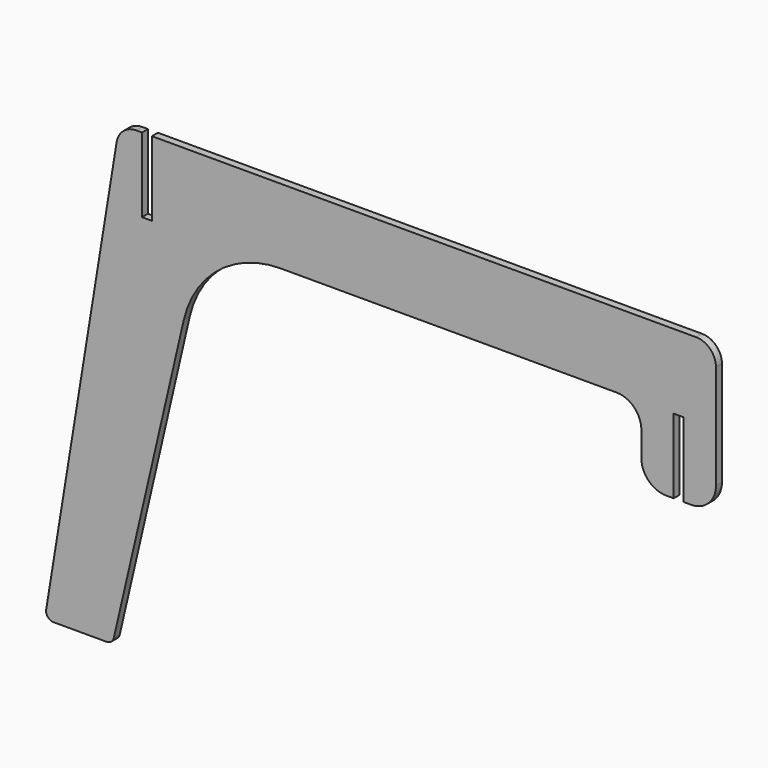
from build123d import *

# Parameters (mm, degrees)
F1_DEPTH = 3


with BuildPart() as f1:
    # F0 (on Front) → F1 (new body)
    with BuildSketch(Plane.XZ):
        with BuildLine():
            Line((-95.890157, 92.5), (-98.192794, 92.5))
            ThreePointArc((-98.192794, 92.5), (-103.377167, 90.592805), (-106.089637, 85.780569))
            Line((-106.089637, 85.780569), (-134.435641, -89.019787))
            ThreePointArc((-134.435641, -89.019787), (-133.759127, -91.44414), (-131.474325, -92.5))
            Line((-131.474325, -92.5), (-110.14113, -92.5))
            ThreePointArc((-110.14113, -92.5), (-108.273856, -91.848039), (-107.218175, -90.175525))
            Line((-107.218175, -90.175525), (-79.096105, 31.506996))
            ThreePointArc((-79.096105, 31.506996), (-65.02036, 53.807186), (-40.12337, 62.5))
            Line((-40.12337, 62.5), (95, 62.5))
            ThreePointArc((95, 62.5), (102.071068, 59.571068), (105, 52.5))
            Line((105, 52.5), (105, 42.5))
            ThreePointArc((105, 42.5), (107.928932, 35.428932), (115, 32.5))
            Line((115, 32.5), (118, 32.5))
            Line((118, 32.5), (118, 62.5))
            Line((118, 62.5), (122, 62.5))
            Line((122, 62.5), (122, 32.5))
            Line((122, 32.5), (125, 32.5))
            ThreePointArc((125, 32.5), (132.071068, 35.428932), (135, 42.5))
            Line((135, 42.5), (135, 62.5))
            Line((135, 62.5), (135, 84.5))
            ThreePointArc((135, 84.5), (132.656854, 90.156854), (127, 92.5))
            Line((127, 92.5), (-91.890157, 92.5))
            Line((-91.890157, 92.5), (-91.890157, 62.5))
            Line((-91.890157, 62.5), (-95.890157, 62.5))
            Line((-95.890157, 62.5), (-95.890157, 92.5))
        make_face()
    extrude(amount=F1_DEPTH)


solid = f1.part
